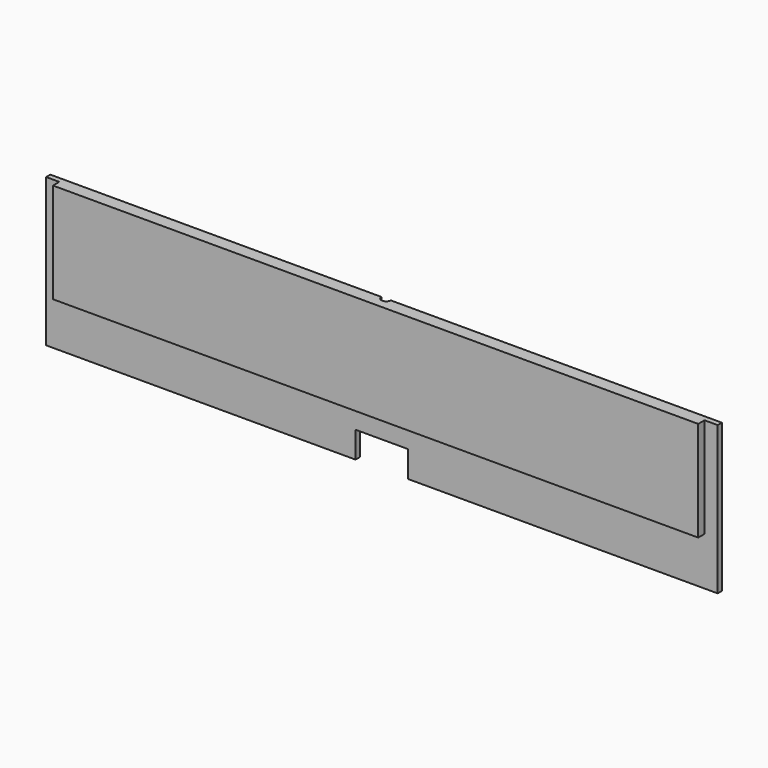
from build123d import *

# Parameters (mm, degrees)
SKETCH074_W          = 245
SKETCH074_H          = 38
PAD035_DEPTH         = 3
PAD036_DEPTH         = 2
SKETCH087_R          = 1.75
POCKET037_DEPTH      = 18.251
POCKET037_DEPTH_BACK = 38.001


with BuildPart() as part:
    # Sketch074 → Pad035 (new body)
    with BuildSketch(Plane.XZ):
        with Locations((122.5, 19)):
            Rectangle(SKETCH074_W, SKETCH074_H)
    extrude(amount=PAD035_DEPTH)

    # Sketch075 → Pad036 (join)
    with BuildSketch(Plane.XZ):
        Polygon((-5, 38), (-5, -18.25), (112.5, -18.25), (112.5, -8.25), (132.5, -8.25), (132.5, -18.25), (250, -18.25), (250, 38), align=None)
    extrude(amount=-PAD036_DEPTH)

    # Sketch087 → Pocket037 (cut, two sides)
    with BuildSketch(Plane.XY) as pocket037_sk:
        with Locations((122.5, 2)):
            Circle(SKETCH087_R)
    extrude(amount=-POCKET037_DEPTH, mode=Mode.SUBTRACT)
    extrude(pocket037_sk.sketch, amount=POCKET037_DEPTH_BACK, mode=Mode.SUBTRACT)


solid = part.part
